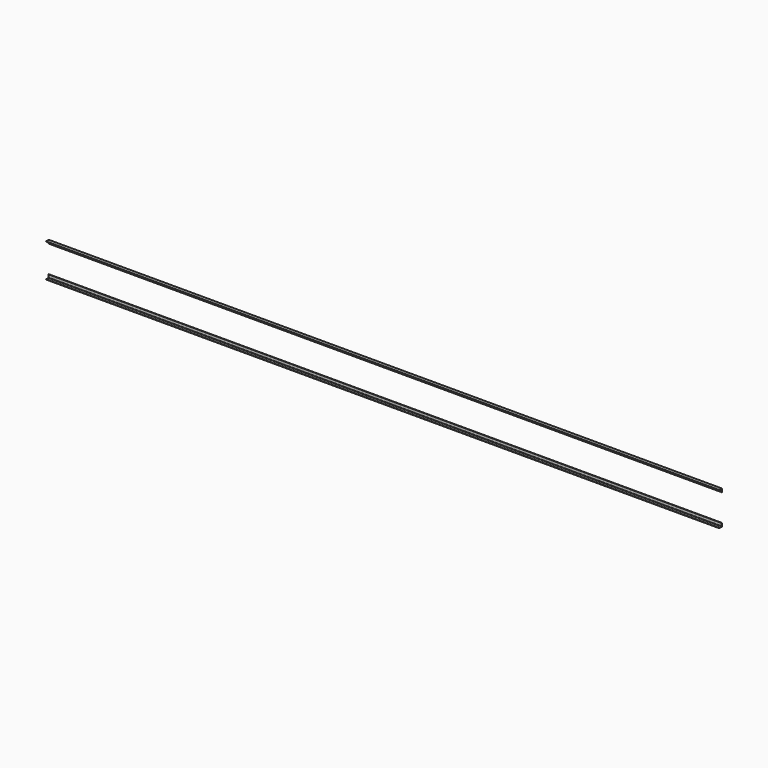
from build123d import *

# Parameters (mm, degrees)
EXTRUDE017_DEPTH = 18000
EXTRUDE018_DEPTH = 18000


with BuildPart() as extrude017:
    # AngleSteel004 → Extrude017 (new body)
    with BuildSketch(Plane(origin=(0, 53.415282, 39.015282), x_dir=(0, 1, 0), z_dir=(-1, 0, 0))):
        with BuildLine():
            Line((-24.615282, 24.615282), (-24.615282, -65.384718))
            Line((-24.615282, -65.384718), (-22.615282, -65.384718))
            ThreePointArc((-22.615282, -65.384718), (-19.079748, -63.920252), (-17.615282, -60.384718))
            Line((-17.615282, -60.384718), (-17.615282, 7.615282))
            ThreePointArc((-17.615282, 7.615282), (-14.68635, 14.68635), (-7.615282, 17.615282))
            Line((-7.615282, 17.615282), (60.384718, 17.615282))
            ThreePointArc((60.384718, 17.615282), (63.920252, 19.079748), (65.384718, 22.615282))
            Line((65.384718, 22.615282), (65.384718, 24.615282))
            Line((65.384718, 24.615282), (-24.615282, 24.615282))
        make_face()
    extrude(amount=-EXTRUDE017_DEPTH)


with BuildPart() as fusion001:
    # Mirror → Extrude018 (new body)
    with BuildSketch(Plane(origin=(0, 53.415282, 889.777402), x_dir=(0, -1, 0), z_dir=(1, 0, 0))):
        with BuildLine():
            Line((24.615282, -24.615282), (24.615282, 65.384718))
            Line((24.615282, 65.384718), (22.615282, 65.384718))
            ThreePointArc((22.615282, 65.384718), (19.079748, 63.920252), (17.615282, 60.384718))
            Line((17.615282, 60.384718), (17.615282, -7.615282))
            ThreePointArc((17.615282, -7.615282), (14.68635, -14.68635), (7.615282, -17.615282))
            Line((7.615282, -17.615282), (-60.384718, -17.615282))
            ThreePointArc((-60.384718, -17.615282), (-63.920252, -19.079748), (-65.384718, -22.615282))
            Line((-65.384718, -22.615282), (-65.384718, -24.615282))
            Line((-65.384718, -24.615282), (24.615282, -24.615282))
        make_face()
    extrude(amount=EXTRUDE018_DEPTH)

    # Fusion001: union Extrude017
    add(extrude017.part)


with BuildPart() as fusion_mirrored:
    # Mirror001: instance of Fusion001
    add(fusion001.part.mirror(Plane(origin=(0, 28.796342, 514.396342), x_dir=(-1, 0, 0), z_dir=(0, -1, 0))))


with BuildPart() as fusion_mirrored_1:
    # Mirror001 placement: moved
    add(fusion_mirrored.part.moved(Location((0, -6, 0))))


solid = fusion_mirrored_1.part
